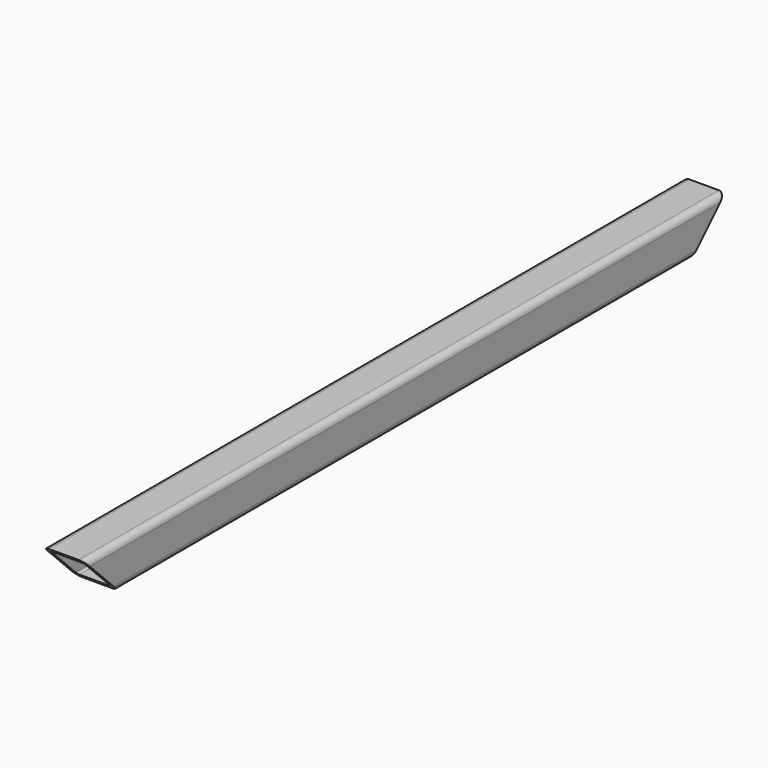
from build123d import *

# Parameters (mm, degrees)
F2_W     = 20
F2_H     = 20
F3_DEPTH = 190
F4_R     = 3
F5_T     = -2
F7_DEPTH = 20.001
F9_DEPTH = 20.001


with BuildPart() as f3:
    # F2 (on Front) → F3 (new body, symmetric)
    with BuildSketch(Plane.XZ):
        Rectangle(F2_W, F2_H)
    extrude(amount=F3_DEPTH, both=True)

    # F4
    f4_edges = [f3.edges().sort_by_distance(p)[0] for p in [
        (10, 0, 10),
        (-10, 0, 10),
        (10, 0, -10),
        (-10, 0, -10),
    ]]
    fillet(f4_edges, radius=F4_R)

    # F5
    f5_openings = [f3.faces().sort_by_distance(p)[0] for p in [
        (0, -190, 0),
        (0, 190, 0),
    ]]
    offset(amount=F5_T, openings=f5_openings)

    # F6 (on face) → F7 (cut, through all)
    with BuildSketch(Plane(origin=(-10, 0, 0), x_dir=(0, -1, 0), z_dir=(-1, 0, 0))):
        Polygon((-190, 10), (-190, -10), (-170, -10), align=None)
    extrude(amount=-F7_DEPTH, mode=Mode.SUBTRACT)

    # F8 (on face) → F9 (cut, through all)
    with BuildSketch(Plane.YZ.offset(10)):
        Polygon((-190, -10), (-170, -10), (-190, 10), align=None)
    extrude(amount=-F9_DEPTH, mode=Mode.SUBTRACT)


solid = f3.part
